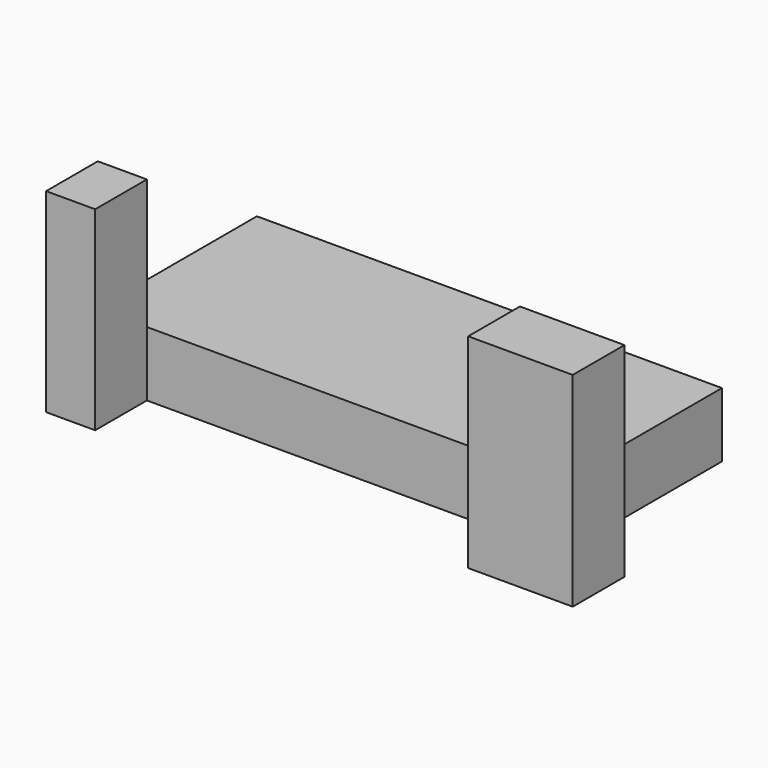
from build123d import *

# Parameters (mm, degrees)
F0_W     = 182.7251240611
F0_H     = 78.556381166
F1_DEPTH = 25.4
F2_W     = 19.2864239216
F2_H     = 76.4613673091
F3_DEPTH = 25.4
F4_W     = 15.6851392239
F4_H     = 80.182261765
F5_DEPTH = 25.4
F6_DEPTH = 25.4


with BuildPart() as f1:
    # F0 (on Top) → F1 (new body)
    with BuildSketch(Plane.XY):
        with Locations((-55.9463985264, 39.278190583)):
            Rectangle(F0_W, F0_H)
    extrude(amount=F1_DEPTH)

    # F2 (on Front) → F3 (join)
    with BuildSketch(Plane.XZ):
        with Locations((-137.3333185911, 38.2306836545)):
            Rectangle(F2_W, F2_H)
    extrude(amount=F3_DEPTH)

    # F4 (on Front) → F5 (join)
    with BuildSketch(Plane.XZ):
        with Locations((26.723430492, 40.0911308825)):
            Rectangle(F4_W, F4_H)
    extrude(amount=F5_DEPTH)

    # F6 (add): a face of the model
    f6_faces = [f1.faces().sort_by_distance(p)[0] for p in [
        (34.566000104, -12.7, 40.0911308825),
    ]]
    extrude(f6_faces, amount=F6_DEPTH)


solid = f1.part
